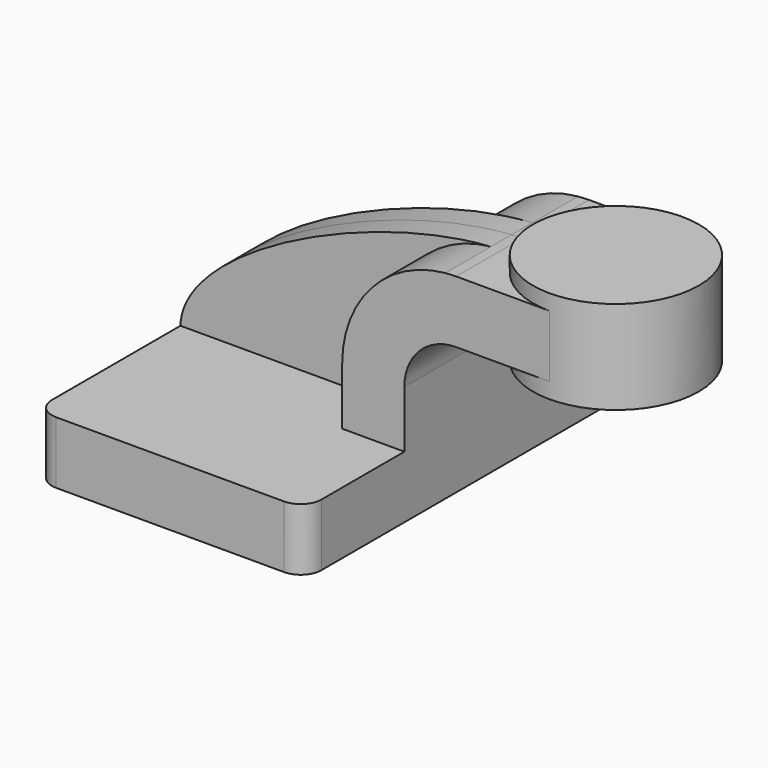
from build123d import *

# Parameters (mm, degrees)
F1_DEPTH      = 63.5
F1_DEPTH_BACK = 63.5
F0_W          = 25.4
F0_H          = 19.05
F2_DEPTH      = 25.4
F2_DEPTH_BACK = 25.4
F3_DEPTH      = 7.9375
F5_R          = 6.35


with BuildPart() as f1:
    # F0 (on Front) → F1 (new body, two sides)
    with BuildSketch(Plane.XZ) as f1_sk:
        Polygon((-41.275, 9.525), (-41.275, -9.525), (41.275, -9.525), (41.275, 9.525), (22.225, 9.525), align=None)
    extrude(amount=F1_DEPTH)
    extrude(f1_sk.sketch, amount=-F1_DEPTH_BACK)

    # F0 (on Front) → F2 (join, two sides)
    with BuildSketch(Plane.XZ) as f2_sk:
        with BuildLine():
            Line((22.225, 9.525), (41.275, 9.525))
            Line((41.275, 9.525), (41.275, 27.0002))
            ThreePointArc((41.275, 27.0002), (45.9246798487, 38.2255201513), (57.15, 42.8752))
            Line((57.15, 42.8752), (60.325, 42.8752))
            Line((60.325, 42.8752), (60.325, 61.9252))
            Line((60.325, 61.9252), (57.15, 61.9252))
            add(Edge.make_bspline(
                [(53.8198051539, 61.7660658354), (54.9473735192, 61.8411835235), (56.058102729, 61.8944833959), (57.15, 61.9252)],
                knots=[108.2731694202, 108.2731694202, 108.2731694202, 108.2731694202, 111.5045361635, 111.5045361635, 111.5045361635, 111.5045361635], degree=3))
            ThreePointArc((53.8198051539, 61.7660658354), (31.30369775, 50.4890119112), (22.225, 27.0002))
            Line((22.225, 27.0002), (22.225, 9.525))
        make_face()
        with Locations((73.025, 52.4002)):
            Rectangle(F0_W, F0_H)
    extrude(amount=F2_DEPTH)
    extrude(f2_sk.sketch, amount=-F2_DEPTH_BACK)

    # F0 (on Front) → F3 (join, symmetric)
    with BuildSketch(Plane.XZ):
        with BuildLine():
            add(Edge.make_bspline(
                [(-41.275, 9.525), (-40.6484546844, 32.2369696222), (16.0384543074, 59.2491029489), (53.8198051539, 61.7660658354)],
                knots=[0, 0, 0, 0, 108.2731694202, 108.2731694202, 108.2731694202, 108.2731694202], degree=3))
            Line((-41.275, 9.525), (22.225, 9.525))
            Line((22.225, 9.525), (22.225, 27.0002))
            ThreePointArc((22.225, 27.0002), (31.30369775, 50.4890119112), (53.8198051539, 61.7660658354))
        make_face()
    extrude(amount=F3_DEPTH, both=True)

    # F0 (on Front) → F4 (revolve)
    with BuildSketch(Plane.XZ):
        Polygon((85.725, 66.675), (85.725, 61.9252), (85.725, 42.8752), (85.725, 38.1), (111.125, 38.1), (111.125, 66.675), align=None)
    revolve(axis=Axis((85.725, 0, 52.3875), (0, 0, 1)))

    # F5
    f5_edges = [f1.edges().sort_by_distance(p)[0] for p in [
        (41.275, -63.5, 0),
        (-41.275, -63.5, 0),
        (-41.275, 63.5, 0),
        (41.275, 63.5, 0),
    ]]
    fillet(f5_edges, radius=F5_R)


solid = f1.part
